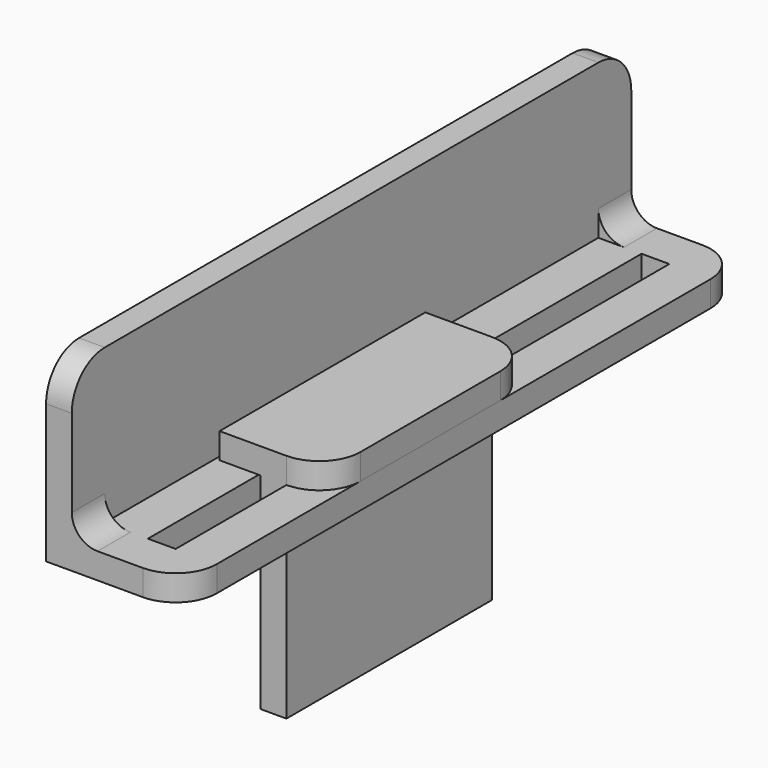
from build123d import *

# Parameters (mm, degrees)
F0_W      = 17.018
F0_H      = 86.36
F0_W_2    = 3.429
F0_H_2    = 76.2
F1_DEPTH  = 3.175
F2_W      = 3.175
F2_H      = 86.36
F3_DEPTH  = 19.05
F4_W      = 13.335
F4_H      = 31.75
F5_DEPTH  = 3.175
F6_W      = 3.175
F6_H      = 31.75
F7_DEPTH  = 25.4
F8_R      = 5.08
F8_2_R    = 5.08
F11_DEPTH = 5.08
F12_DEPTH = 5.08


with BuildPart() as f1:
    # F0 (on Top) → F1 (new body)
    with BuildSketch(Plane.XY):
        with Locations((0, 38.1)):
            Rectangle(F0_W, F0_H)
        with Locations((1.7145, 38.1)):
            Rectangle(F0_W_2, F0_H_2, mode=Mode.SUBTRACT)
    extrude(amount=F1_DEPTH)

    # F2 (on face) → F3 (join)
    with BuildSketch(Plane.XY.offset(3.175)):
        with Locations((-6.9215, 38.1)):
            Rectangle(F2_W, F2_H)
    extrude(amount=F3_DEPTH)

    # F8#2
    f8_2_edges = [f1.edges().sort_by_distance(p)[0] for p in [
        (8.509, -5.08, 1.5875),
        (8.509, 81.28, 1.5875),
        (-6.9215, -5.08, 22.225),
        (-6.9215, 81.28, 22.225),
    ]]
    fillet(f8_2_edges, radius=F8_2_R)

    # F9 (on face) → F11 (join, through all)
    with BuildSketch(Plane.XZ.offset(5.08)):
        with BuildLine():
            Line((-5.334, 6.35), (-5.334, 3.175))
            Line((-5.334, 3.175), (-2.159, 3.175))
            ThreePointArc((-2.159, 3.175), (-4.4040640303, 4.1049359697), (-5.334, 6.35))
        make_face()
    extrude(amount=-F11_DEPTH)

    # F10 (on face) → F12 (join, through all)
    with BuildSketch(Plane(origin=(0, 81.28, 0), x_dir=(-1, 0, 0), z_dir=(0, 1, 0))):
        with BuildLine():
            Line((5.334, 3.175), (5.334, 6.35))
            ThreePointArc((5.334, 6.35), (4.4040640303, 4.1049359697), (2.159, 3.175))
            Line((2.159, 3.175), (5.334, 3.175))
        make_face()
    extrude(amount=-F12_DEPTH)


with BuildPart() as f5:
    # F4 (on face) → F5 (new body)
    with BuildSketch(Plane.XY.offset(3.175)):
        with Locations((1.8415, 32.9726202935)):
            Rectangle(F4_W, F4_H)
    extrude(amount=F5_DEPTH)

    # F6 (on face) → F7 (join)
    with BuildSketch(Plane(origin=(0, 0, 3.175), x_dir=(1, 0, 0), z_dir=(0, 0, -1))):
        with Locations((1.8415, -32.9726202935)):
            Rectangle(F6_W, F6_H)
    extrude(amount=F7_DEPTH)

    # F8
    f8_edges = [f5.edges().sort_by_distance(p)[0] for p in [
        (8.509, 17.09762, 4.7625),
        (8.509, 48.84762, 4.7625),
    ]]
    fillet(f8_edges, radius=F8_R)


solid = Compound([f1.part, f5.part])
